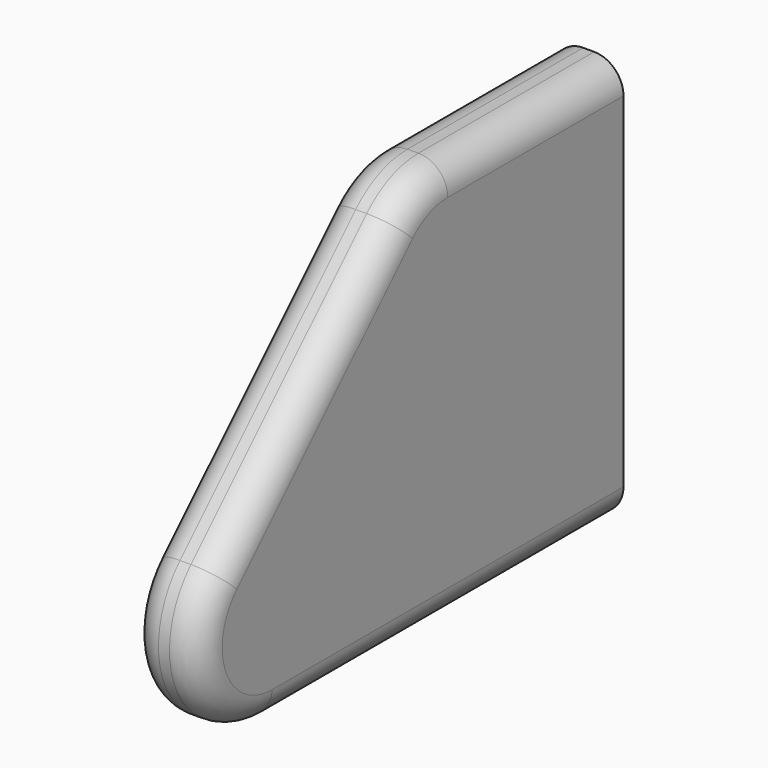
from build123d import *

# Parameters (mm, degrees)
F1_DEPTH = 19
F2_R     = 12.7
F3_DEPTH = 10
F4_R     = 8
F5_R     = 8


with BuildPart() as f1:
    # F0 (on Right) → F1 (new body)
    with BuildSketch(Plane.YZ):
        with BuildLine():
            Line((-120, 0), (0, 0))
            Line((0, 0), (0, 110))
            Line((0, 110), (-60, 110))
            ThreePointArc((-60, 110), (-69.567086, 108.096988), (-77.67767, 102.67767))
            Line((-77.67767, 102.67767), (-137.67767, 42.67767))
            ThreePointArc((-137.67767, 42.67767), (-143.096988, 15.432914), (-120, 0))
        make_face()
    extrude(amount=F1_DEPTH)

    # F2 (on face) → F3 (cut)
    with BuildSketch(Plane(origin=(0, 0, 0), x_dir=(0, -1, 0), z_dir=(-1, 0, 0))):
        with Locations((60, 85)):
            Circle(F2_R)
        with Locations((120, 25)):
            Circle(F2_R)
    extrude(amount=-F3_DEPTH, mode=Mode.SUBTRACT)

    # F4
    f4_edges = [f1.edges().sort_by_distance(p)[0] for p in [
        (0, -30, 110),
    ]]
    fillet(f4_edges, radius=F4_R)

    # F5
    f5_edges = [f1.edges().sort_by_distance(p)[0] for p in [
        (19, -30, 110),
    ]]
    fillet(f5_edges, radius=F5_R)


solid = f1.part
